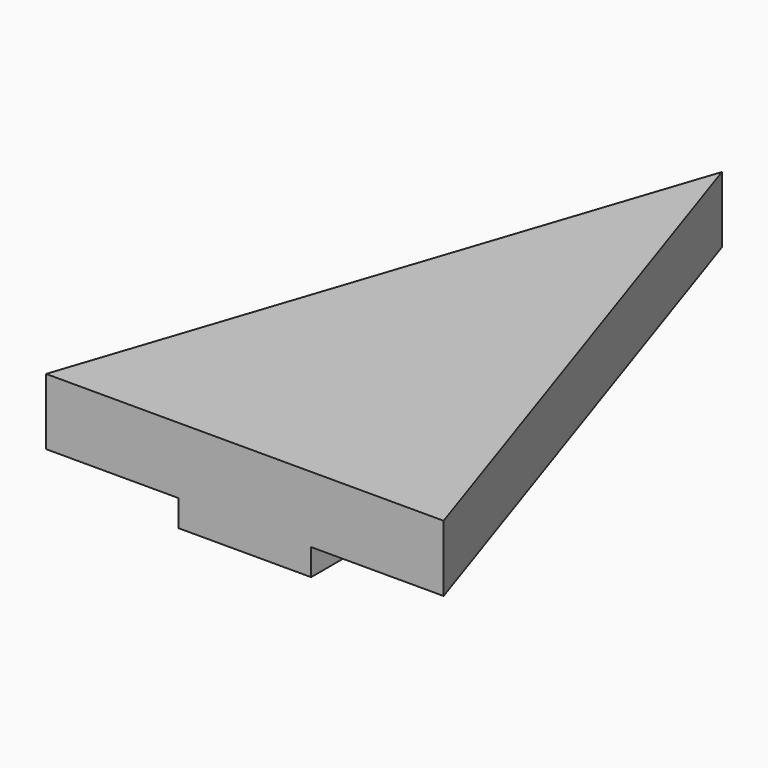
from build123d import *

# Parameters (mm, degrees)
F1_DEPTH = 12.7
F2_W     = 25.4
F2_H     = 38.1
F3_DEPTH = 5.08


with BuildPart() as f1:
    # F0 (on Top) → F1 (new body)
    with BuildSketch(Plane.XY):
        Polygon((0, 76.2), (-38.1, -38.1), (38.1, -38.1), align=None)
    extrude(amount=F1_DEPTH)

    # F2 (on face) → F3 (join)
    with BuildSketch(Plane(origin=(0, 0, 0), x_dir=(1, 0, 0), z_dir=(0, 0, -1))):
        with Locations((0, 19.05)):
            Rectangle(F2_W, F2_H)
    extrude(amount=F3_DEPTH)


solid = f1.part
